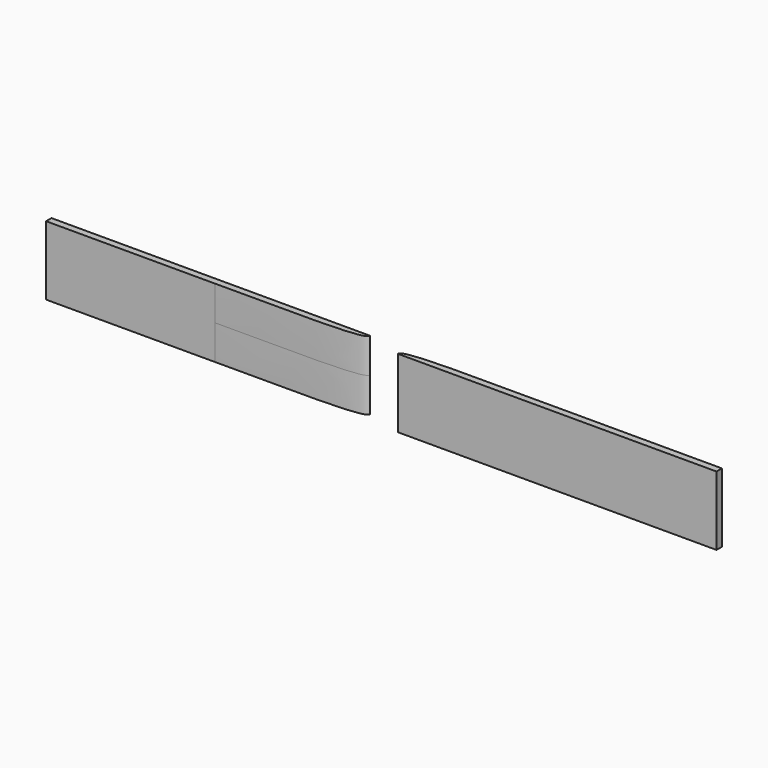
from build123d import *

# Parameters (mm, degrees)
F1_DEPTH = 12.5


with BuildPart() as f1:
    # F0 (on Top) → F1 (new body, symmetric)
    with BuildSketch(Plane.XY):
        with BuildLine():
            Line((-6.48321, 1.862325), (-121.891181, 1.862325))
            Line((-121.891181, 1.862325), (-121.891181, -0.593989))
            Line((-121.891181, -0.593989), (-60.768084, -0.593989))
            add(Edge.make_bspline(
                [(-60.768084, -0.593989), (-26.700584, -0.593989), (-6.357463, -1.055275), (-6.48321, 1.862325)],
                knots=[0, 0, 0, 0, 54.340418, 54.340418, 54.340418, 54.340418], degree=3))
        make_face()
    extrude(amount=F1_DEPTH, both=True)


with BuildPart() as f2_1:
    # F2: instance of F1
    add(f1.part.mirror(Plane.YZ))


with BuildPart() as f3_1:
    # F3: instance of F2_1
    add(f2_1.part.mirror(Plane.XZ))


solid = Compound([f1.part, f3_1.part])
